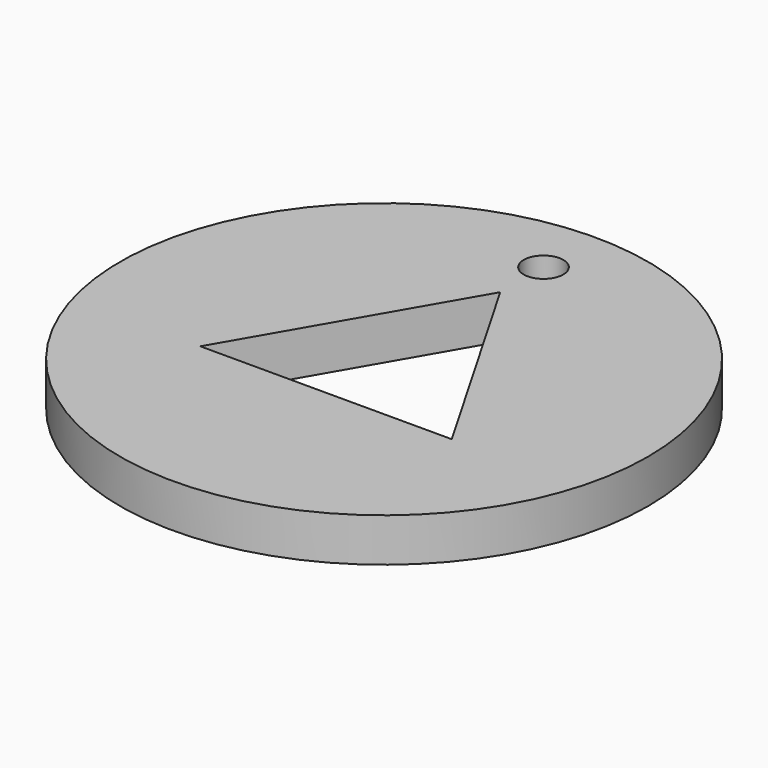
from build123d import *

# Parameters (mm, degrees)
CYLINDER_R      = 20
CYLINDER_DEPTH  = 3.3
SKETCH_R        = 1.5
POCKET_DEPTH    = 3.301
POCKET001_DEPTH = 3.301


with BuildPart() as part:
    # Cylinder → Cylinder (new body)
    with BuildSketch(Plane.XY):
        Circle(CYLINDER_R)
    extrude(amount=CYLINDER_DEPTH)

    # Sketch → Pocket (cut, through all)
    with BuildSketch(Plane.XY.offset(3.3)):
        with Locations((0, 15.1)):
            Circle(SKETCH_R)
    extrude(amount=-POCKET_DEPTH, mode=Mode.SUBTRACT)

    # Sketch001 → Pocket001 (cut, through all)
    with BuildSketch(Plane.XY.offset(3.3)):
        Polygon((-9.526279, -5.5), (0, 11), (9.526279, -5.5), align=None)
    extrude(amount=-POCKET001_DEPTH, mode=Mode.SUBTRACT)


solid = part.part
